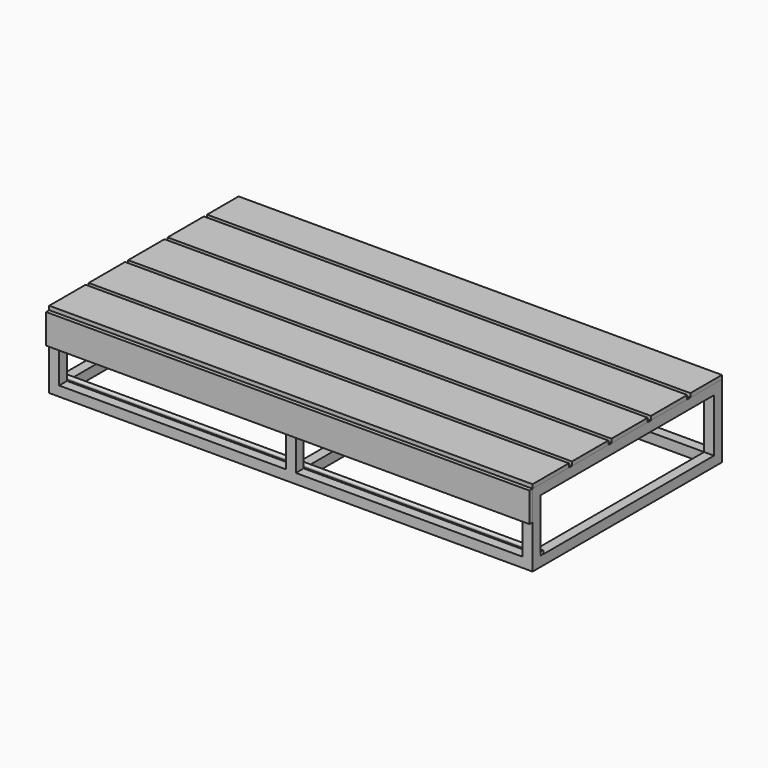
from build123d import *

# Parameters (mm, degrees)
F0_W      = 50
F0_H      = 50
F0_H_2    = 1100
F1_DEPTH  = 50
F2_W      = 50
F2_H      = 50
F3_DEPTH  = 270
F4_W      = 2450
F4_H      = 1200
F4_W_2    = 25
F4_H_2    = 1100
F4_W_3    = 50
F5_DEPTH  = 50
F6_R      = 9
F7_DEPTH  = 2450
F9_DEPTH  = 20
F10_W     = 2500
F10_H     = 1200
F11_DEPTH = 20
F12_W     = 20
F12_H     = 20
F13_DEPTH = 2500
F14_W     = 50
F14_H     = 170
F15_DEPTH = 1220


with BuildPart() as f1:
    # F0 (on Top) → F1 (new body)
    with BuildSketch(Plane.XY):
        with Locations((1200, -575)):
            Rectangle(F0_W, F0_H)
        Polygon((-1175, -600), (1175, -600), (1175, -550), (25, -550), (0, -550), (-25, -550), (-1175, -550), align=None)
        with Locations((1200, 0)):
            Rectangle(F0_W, F0_H_2)
        with Locations((-1200, -575)):
            Rectangle(F0_W, F0_H)
        with Locations((1200, 575)):
            Rectangle(F0_W, F0_H)
        with Locations((-1200, 0)):
            Rectangle(F0_W, F0_H_2)
        Polygon((25, 550), (1175, 550), (1175, 600), (-1175, 600), (-1175, 550), (-25, 550), (0, 550), align=None)
        with Locations((-1200, 575)):
            Rectangle(F0_W, F0_H)
        Polygon((0, -550), (25, -550), (25, 0), (25, 550), (0, 550), (0, 0), align=None)
        Polygon((-25, 0), (-25, -550), (0, -550), (0, 0), (0, 550), (-25, 550), align=None)
    extrude(amount=F1_DEPTH)

    # F2 (on face) → F3 (join)
    with BuildSketch(Plane.XY.offset(50)):
        with Locations((0, 575)):
            Rectangle(F2_W, F2_H)
        with Locations((-1200, 575)):
            Rectangle(F2_W, F2_H)
        with Locations((-1200, -575)):
            Rectangle(F2_W, F2_H)
        with Locations((0, -575)):
            Rectangle(F2_W, F2_H)
        with Locations((1200, -575)):
            Rectangle(F2_W, F2_H)
        with Locations((1200, 575)):
            Rectangle(F2_W, F2_H)
    extrude(amount=F3_DEPTH)

    # F4 (on face) → F5 (join)
    with BuildSketch(Plane.XY.offset(320)):
        Rectangle(F4_W, F4_H)
        Polygon((1175, 550), (1175, -550), (625, -550), (600, -550), (575, -550), (25, -550), (-25, -550), (-575, -550), (-600, -550), (-625, -550), (-1175, -550), (-1175, 550), (-625, 550), (-600, 550), (-575, 550), (-25, 550), (25, 550), (575, 550), (600, 550), (625, 550), align=None, mode=Mode.SUBTRACT)
        with Locations((-587.5, 0)):
            Rectangle(F4_W_2, F4_H_2)
        with Locations((-612.5, 0)):
            Rectangle(F4_W_2, F4_H_2)
        with Locations((612.5, 0)):
            Rectangle(F4_W_2, F4_H_2)
        with Locations((587.5, 0)):
            Rectangle(F4_W_2, F4_H_2)
        Rectangle(F4_W_3, F4_H_2)
    extrude(amount=F5_DEPTH)

    # F6 (on face) → F7 (join)
    with BuildSketch(Plane(origin=(-1225, 0, 0), x_dir=(0, -1, 0), z_dir=(-1, 0, 0))):
        with Locations((540, 60)):
            Circle(F6_R)
        with BuildLine():
            ThreePointArc((550.5, 60), (529.625753, 61.620185), (550, 56.798438))
            ThreePointArc((550, 56.798438), (550.374247, 58.379815), (550.5, 60))
        make_face()
        with Locations((540, 60)):
            Circle(F6_R, mode=Mode.SUBTRACT)
    extrude(amount=-F7_DEPTH)


with BuildPart() as f9:
    # F8 (on face) → F9 (new body)
    with BuildSketch(Plane.XZ.offset(600)):
        Polygon((1225, 220), (1225, 370), (-1225, 370), (-1275, 370), (-1275, 220), align=None)
    extrude(amount=F9_DEPTH)


with BuildPart() as f11:
    # F10 (on face) → F11 (new body)
    with BuildSketch(Plane.XY.offset(370)):
        with Locations((-25, 0)):
            Rectangle(F10_W, F10_H)
    extrude(amount=F11_DEPTH)

    # F12 (on face) → F13 (cut, through all)
    with BuildSketch(Plane(origin=(-1275, 0, 0), x_dir=(0, -1, 0), z_dir=(-1, 0, 0))):
        with Locations((610, 380)):
            Rectangle(F12_W, F12_H)
        with Locations((360, 380)):
            Rectangle(F12_W, F12_H)
        with Locations((110, 380)):
            Rectangle(F12_W, F12_H)
        with Locations((-140, 380)):
            Rectangle(F12_W, F12_H)
        with Locations((-390, 380)):
            Rectangle(F12_W, F12_H)
    extrude(amount=-F13_DEPTH, mode=Mode.SUBTRACT)


with BuildPart() as f15:
    # F14 (on face) → F15 (new body, through all)
    with BuildSketch(Plane.XZ.offset(620)):
        with Locations((-1250, 305)):
            Rectangle(F14_W, F14_H)
    extrude(amount=-F15_DEPTH)


with BuildPart() as f9_1:
    add(f9.part)

    # F16: cut F15
    add(f15.part, mode=Mode.SUBTRACT)


with BuildPart() as f11_1:
    add(f11.part)

    # F16: cut F15
    add(f15.part, mode=Mode.SUBTRACT)


solid = Compound([f1.part, f9_1.part, f11_1.part])
